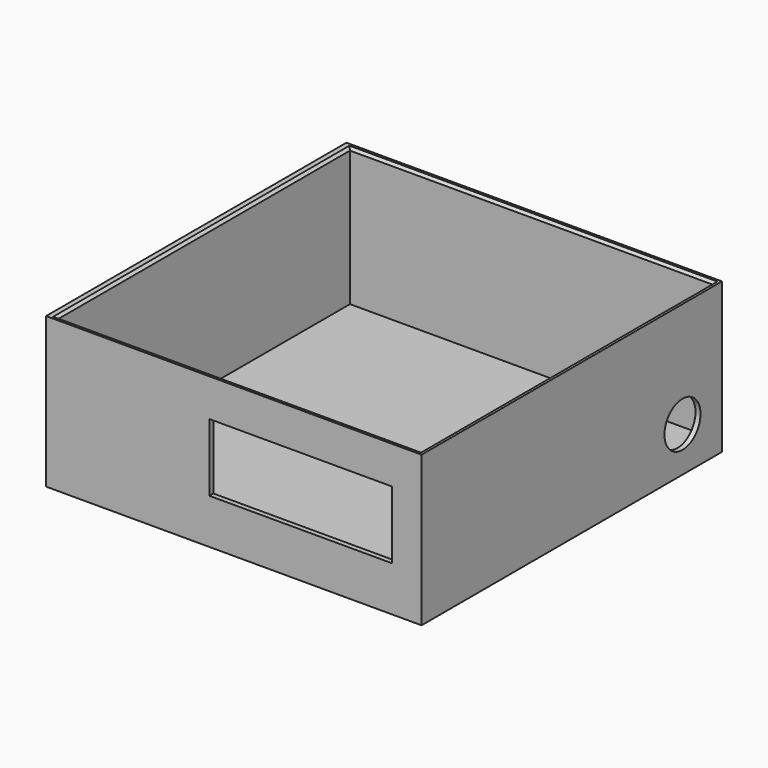
from build123d import *

# Parameters (mm, degrees)
SKETCH001_R                    = 9
EXTRUDE001_DEPTH               = 10
SKETCH_AS_DRAWN_W              = 73
SKETCH_AS_DRAWN_H              = 27
EXTRUDE_DEPTH                  = 10
EXTRUDE_ONTO_SKETCH_ROLL_ANGLE = 90
BOX_W                          = 145
BOX_H                          = 146
BOX_DEPTH                      = 57
BOX001_W                       = 150
BOX001_H                       = 150
BOX001_DEPTH                   = 60
CHAMFER001_SIZE                = 1


with BuildPart() as obj1:
    # Sketch001 → Extrude001 (new body)
    with BuildSketch(Plane.YZ.offset(150)):
        with Locations((129.311707, 12.728212)):
            Circle(SKETCH001_R)
    extrude(amount=EXTRUDE001_DEPTH)


with BuildPart() as obj1_1:
    # Extrude001 placement: moved
    add(obj1.part.moved(Location((-6, 1, 5))))


with BuildPart() as fusion:
    # Sketch as drawn → Extrude (new)
    with BuildSketch(Plane.XY):
        with Locations((101.75337, 31.497138)):
            Rectangle(SKETCH_AS_DRAWN_W, SKETCH_AS_DRAWN_H)
    extrude(amount=EXTRUDE_DEPTH)


with BuildPart() as fusion_1:
    # Extrude onto Sketch roll: moved
    add(fusion.part.rotate(Axis((0, 0, 0), (1, 0, 0)), EXTRUDE_ONTO_SKETCH_ROLL_ANGLE))


with BuildPart() as fusion_2:
    # Extrude onto Sketch placement: moved
    add(fusion_1.part)


with BuildPart() as fusion_3:
    # Extrude placement: moved
    add(fusion_2.part.moved(Location((0, 6, 0))))

    # Fusion: union obj1
    add(obj1_1.part)


with BuildPart() as cubo:
    # Box → Box (new body)
    with BuildSketch(Plane(origin=(3, 2, 5), x_dir=(1, 0, 0), z_dir=(0, 0, 1))):
        with Locations((72.5, 73)):
            Rectangle(BOX_W, BOX_H)
    extrude(amount=BOX_DEPTH)


with BuildPart() as basecaja:
    # Box001 → Box001 (new body)
    with BuildSketch(Plane.XY):
        with Locations((75, 75)):
            Rectangle(BOX001_W, BOX001_H)
    extrude(amount=BOX001_DEPTH)

    # Cut: cut Cubo
    add(cubo.part, mode=Mode.SUBTRACT)

    # Cut001: cut Fusion
    add(fusion_3.part, mode=Mode.SUBTRACT)

    # Chamfer001
    chamfer001_edges = [basecaja.edges().sort_by_distance(p)[0] for p in [
        (75.5, 2, 60),
        (148, 75, 60),
        (75.5, 148, 60),
        (3, 75, 60),
    ]]
    chamfer(chamfer001_edges, length=CHAMFER001_SIZE)


solid = basecaja.part
